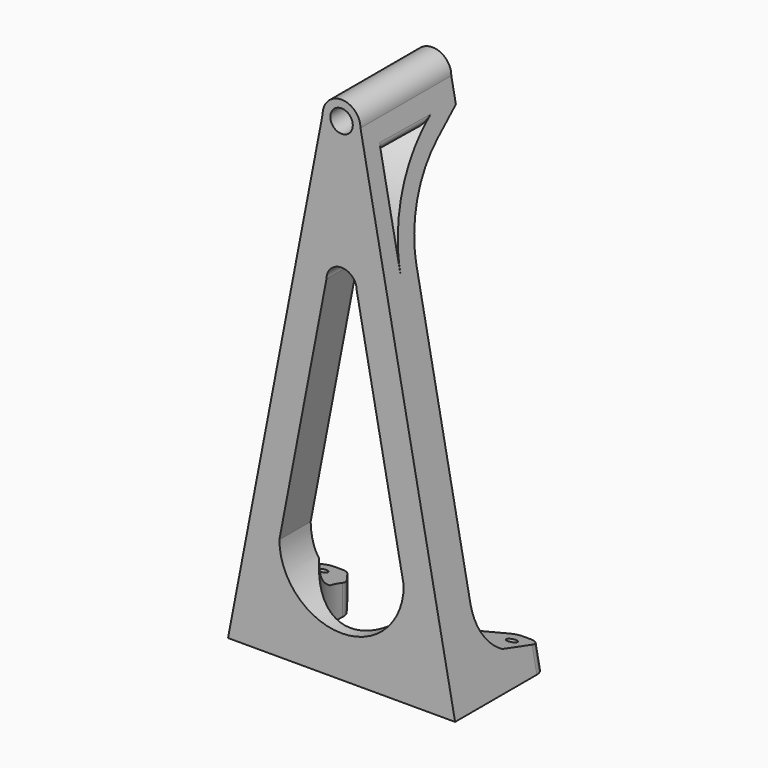
from build123d import *

# Parameters (mm, degrees)
F0_R      = 2.966363647
F1_DEPTH  = 15
F2_R      = 1.25
F3_DEPTH  = 15
F5_DEPTH  = 30
F7_DEPTH  = 25
F8_R      = 3
F9_R      = 3
F10_R     = 17.5
F11_DEPTH = 30
F12_R     = 3
F13_R     = 2


with BuildPart() as f1:
    # F0 (on Front) → F1 (new body, symmetric)
    with BuildSketch(Plane.XZ):
        with BuildLine():
            Line((-30, 0), (0, 0))
            Line((0, 0), (30, 0))
            Line((30, 0), (5, 130))
            ThreePointArc((5, 130), (0, 135), (-5, 130))
            Line((-5, 130), (-30, 0))
        make_face()
        with BuildLine():
            ThreePointArc((16.4291715262, 27.2951927036), (0, 10.8660211774), (-16.4291715262, 27.2951927036))
            Line((-16.4291715262, 27.2951927036), (-3.9969446867, 91.9427722692))
            ThreePointArc((-3.9969446867, 91.9427722692), (0, 95.9397169559), (3.9969446867, 91.9427722692))
            Line((3.9969446867, 91.9427722692), (16.4291715262, 27.2951927036))
        make_face(mode=Mode.SUBTRACT)
        with Locations((0, 130)):
            Circle(F0_R, mode=Mode.SUBTRACT)
    extrude(amount=F1_DEPTH, both=True)

    # F2 (on Top) → F3 (cut)
    with BuildSketch(Plane.XY):
        with Locations((-25, -10)):
            Circle(F2_R)
        with BuildLine():
            ThreePointArc((26.25, 10), (25, 11.25), (23.75, 10))
            ThreePointArc((23.75, 10), (25, 8.75), (26.25, 10))
        make_face()
        with Locations((-25, 10)):
            Circle(F2_R)
        with Locations((25, -10)):
            Circle(F2_R)
    extrude(amount=F3_DEPTH, mode=Mode.SUBTRACT)

    # F4 (on Right) → F5 (cut, symmetric)
    with BuildSketch(Plane.YZ):
        with BuildLine():
            Line((2.7910187355, 9.1569548885), (17.7158373854, 4.9780059552))
            Line((17.7158373854, 4.9780059552), (19.1600148357, 126.4660232181))
            Line((19.1600148357, 126.4660232181), (7.8171554744, 119.0036110992))
            ThreePointArc((7.8171554744, 119.0036110992), (-1.3503809801, 108.9970573428), (-4.6713938491, 95.8385727701))
            Line((-4.6713938491, 95.8385727701), (-4.6713938491, 21.9922982569))
            ThreePointArc((-4.6713938491, 21.9922982569), (-2.6702181322, 14.5687943509), (2.7910187355, 9.1569548885))
        make_face()
        with BuildLine():
            ThreePointArc((-9.9519597852, 95.8385729755), (-6.4277544412, 110.6791573106), (3.3923443925, 122.3508592262))
            Line((3.3923443925, 122.3508592262), (-9.9519597852, 122.5094883949))
            Line((-9.9519597852, 122.5094883949), (-9.9519597852, 95.8385729755))
        make_face()
    extrude(amount=F5_DEPTH, both=True, mode=Mode.SUBTRACT)

    # F6 (on Top) → F7 (cut)
    with BuildSketch(Plane.XY):
        with BuildLine():
            ThreePointArc((7.0281636992, -5.3187759427), (8.3555325008, -2.8052698872), (8.8138789708, 0))
            ThreePointArc((8.8138789708, 0), (-2.8052698872, 8.3555325008), (-7.0281636992, -5.3187759427))
            ThreePointArc((-7.0281636992, -5.3187759427), (0, -8.8138789708), (7.0281636992, -5.3187759427))
        make_face()
        with BuildLine():
            ThreePointArc((-7.0281636992, -5.3187759427), (-2.8052698872, 8.3555325008), (8.8138789708, 0))
            ThreePointArc((8.8138789708, 0), (8.3555325008, -2.8052698872), (7.0281636992, -5.3187759427))
            Line((7.0281636992, -5.3187759427), (22.7976655115, 15.5188456048))
            Line((22.7976655115, 15.5188456048), (0, 15.5188456048))
            Line((0, 15.5188456048), (-22.7976655115, 15.5188456048))
            Line((-22.7976655115, 15.5188456048), (-7.0281636992, -5.3187759427))
        make_face()
    extrude(amount=F7_DEPTH, mode=Mode.SUBTRACT)

    # F8
    f8_edges = [f1.edges().sort_by_distance(p)[0] for p in [
        (22.405013, 15, 2.86922),
    ]]
    fillet(f8_edges, radius=F8_R)

    # F9
    f9_edges = [f1.edges().sort_by_distance(p)[0] for p in [
        (-22.405013, 15, 2.86922),
        (-29.448227, 15, 2.86922),
        (29.448227, 15, 2.86922),
    ]]
    fillet(f9_edges, radius=F9_R)

    # F10 (on Top) → F11 (cut)
    with BuildSketch(Plane.XY):
        with Locations((0, 5.4938265468)):
            Circle(F10_R)
    extrude(amount=F11_DEPTH, mode=Mode.SUBTRACT)

    # F12
    f12_edges = [f1.edges().sort_by_distance(p)[0] for p in [
        (-17.284225, 8.233455, 3.816536),
        (17.284225, 8.233455, 3.816536),
    ]]
    fillet(f12_edges, radius=F12_R)

    # F13
    f13_edges = [f1.edges().sort_by_distance(p)[0] for p in [
        (-6.455736, -3.279808, 122.430174),
        (6.455736, -3.279808, 122.430174),
    ]]
    fillet(f13_edges, radius=F13_R)


solid = f1.part
